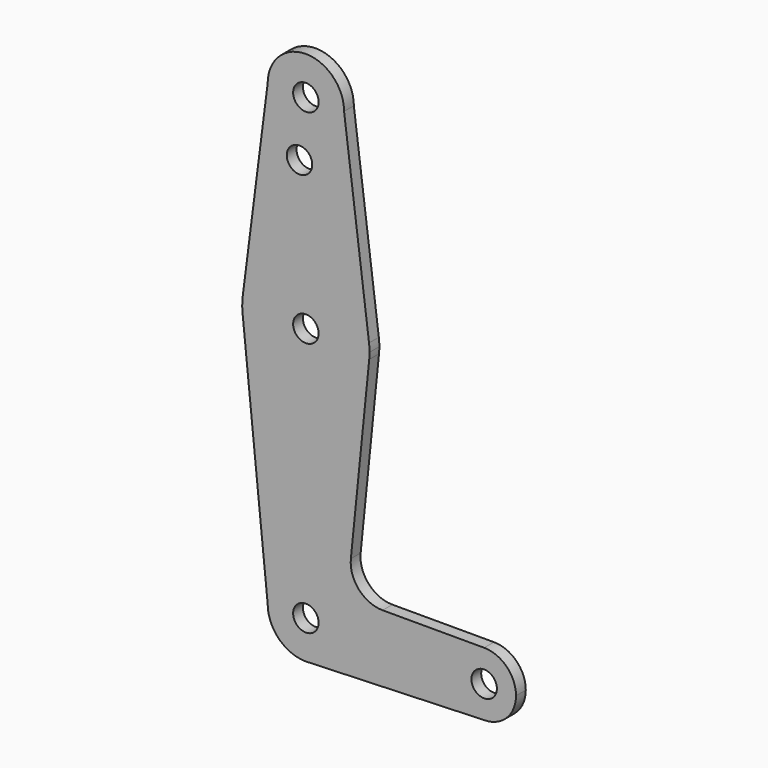
from build123d import *

# Parameters (mm, degrees)
F0_R     = 3.175
F1_DEPTH = 3.048


with BuildPart() as f1:
    # F0 (on Front) → F1 (new body)
    with BuildSketch(Plane.XZ):
        with BuildLine():
            ThreePointArc((-9.525, 114.3), (0, 104.775), (9.525, 114.3))
            ThreePointArc((9.525, 114.3), (0, 123.825), (-9.525, 114.3))
        make_face()
        with Locations((0, 114.3)):
            Circle(F0_R, mode=Mode.SUBTRACT)
        with BuildLine():
            Line((15.747457, 65.508289), (9.525, 114.3))
            ThreePointArc((9.525, 114.3), (0, 104.775), (-9.525, 114.3))
            Line((-9.525, 114.3), (-15.747457, 65.508289))
            ThreePointArc((-15.747457, 65.508289), (0, 79.375), (15.747457, 65.508289))
        make_face()
        with Locations((-1.5875, 100.0252)):
            Circle(F0_R, mode=Mode.SUBTRACT)
        with BuildLine():
            ThreePointArc((15.875, 63.5), (15.843082, 64.506168), (15.747457, 65.508289))
            ThreePointArc((15.747457, 65.508289), (0, 79.375), (-15.747457, 65.508289))
            ThreePointArc((-15.747457, 65.508289), (-15.873668, 63.705667), (-15.794203, 61.90038))
            ThreePointArc((-15.794203, 61.90038), (0, 47.625), (15.794203, 61.90038))
            ThreePointArc((15.794203, 61.90038), (15.854788, 62.699171), (15.875, 63.5))
        make_face()
        with Locations((0, 63.5)):
            Circle(F0_R, mode=Mode.SUBTRACT)
        with BuildLine():
            ThreePointArc((15.794203, 61.90038), (0, 47.625), (-15.794203, 61.90038))
            Line((-15.794203, 61.90038), (-9.525, 0))
            ThreePointArc((-9.525, 0), (0, 9.525), (9.525, 0))
            ThreePointArc((9.525, 0), (6.97129, -6.490511), (0.67949, -9.500732))
            Line((0.67949, -9.500732), (44.45, -7.9375))
            ThreePointArc((44.45, -7.9375), (36.5125, 0), (44.45, 7.9375))
            Line((44.45, 7.9375), (19.124959, 7.9375))
            ThreePointArc((19.124959, 7.9375), (13.226887, 10.556806), (11.215222, 16.688789))
            Line((11.215222, 16.688789), (15.794203, 61.90038))
        make_face()
        with BuildLine():
            ThreePointArc((9.525, 0), (0, 9.525), (-9.525, 0))
            ThreePointArc((-9.525, 0), (-6.735192, -6.735192), (0, -9.525))
            Line((0, -9.525), (0.67949, -9.500732))
            ThreePointArc((0.67949, -9.500732), (6.97129, -6.490511), (9.525, 0))
        make_face()
        Circle(F0_R, mode=Mode.SUBTRACT)
        with BuildLine():
            Line((0.67949, -9.500732), (0, -9.525))
            ThreePointArc((0, -9.525), (0.339962, -9.518931), (0.67949, -9.500732))
        make_face()
        with BuildLine():
            ThreePointArc((52.3875, 0), (50.06266, 5.61266), (44.45, 7.9375))
            ThreePointArc((44.45, 7.9375), (36.5125, 0), (44.45, -7.9375))
            ThreePointArc((44.45, -7.9375), (50.06266, -5.61266), (52.3875, 0))
        make_face()
        with Locations((44.45, 0)):
            Circle(F0_R, mode=Mode.SUBTRACT)
    extrude(amount=F1_DEPTH)


solid = f1.part
